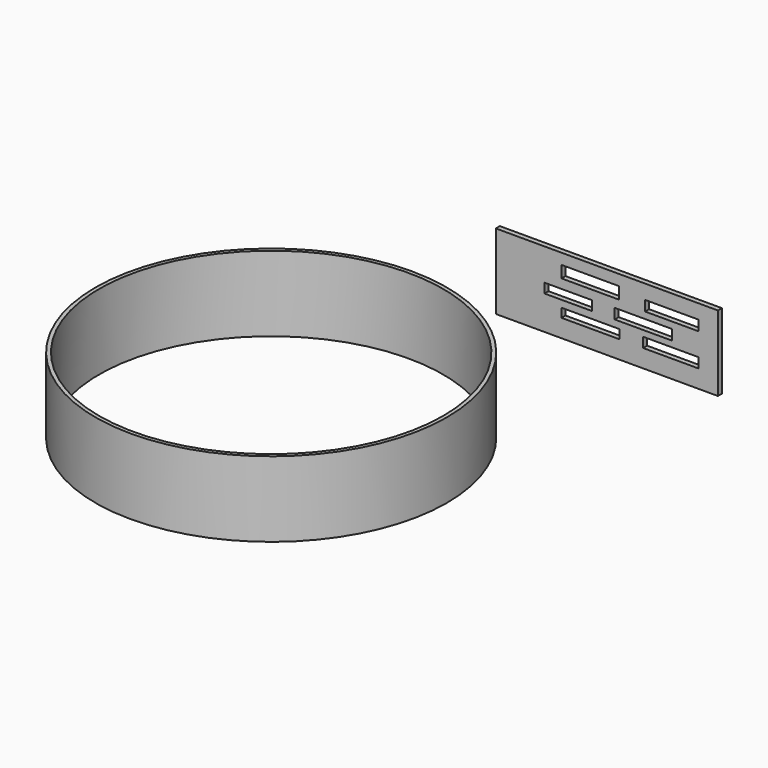
from build123d import *

# Parameters (mm, degrees)
F0_R     = 35
F0_R_2   = 34.25
F1_DEPTH = 15
F2_W     = 44.219401
F2_H     = 1
F3_DEPTH = 15
F4_W     = 44.219401
F4_H     = 15
F4_W_2   = 11.061309
F4_H_2   = 1.975235
F4_W_3   = 11.58804
F4_H_3   = 1.777711
F4_W_4   = 10.600423
F4_H_4   = 2.041075
F4_W_5   = 11.390517
F4_W_6   = 9.451392
F4_H_5   = 1.904932
F4_W_7   = 11.456358
F4_H_6   = 2.37028
F5_DEPTH = 2


with BuildPart() as f1:
    # F0 (on Top) → F1 (new body)
    with BuildSketch(Plane.XY):
        Circle(F0_R)
        Circle(F0_R_2, mode=Mode.SUBTRACT)
    extrude(amount=F1_DEPTH)


with BuildPart() as f3:
    # F2 (on Top) → F3 (new body)
    with BuildSketch(Plane.XY):
        with Locations((23.309262, 54.921625)):
            Rectangle(F2_W, F2_H)
    extrude(amount=F3_DEPTH)

    # F4 (on face) → F5 (intersect)
    with BuildSketch(Plane(origin=(0, 55.421625, 0), x_dir=(-1, 0, 0), z_dir=(0, 1, 0))):
        with Locations((-23.309262, 7.5)):
            Rectangle(F4_W, F4_H)
        with Locations((-36.062576, 4.564508)):
            Rectangle(F4_W_2, F4_H_2, mode=Mode.SUBTRACT)
        with Locations((-20.063183, 4.465746)):
            Rectangle(F4_W_3, F4_H_3, mode=Mode.SUBTRACT)
        with Locations((-36.227182, 11.115702)):
            Rectangle(F4_W_4, F4_H_4, mode=Mode.SUBTRACT)
        with Locations((-30.564843, 7.757803)):
            Rectangle(F4_W_5, F4_H_4, mode=Mode.SUBTRACT)
        with Locations((-15.621856, 7.694377)):
            Rectangle(F4_W_6, F4_H_5, mode=Mode.SUBTRACT)
        with Locations((-19.997342, 11.675351)):
            Rectangle(F4_W_7, F4_H_6, mode=Mode.SUBTRACT)
    extrude(amount=-F5_DEPTH, mode=Mode.INTERSECT)


solid = Compound([f1.part, f3.part])
